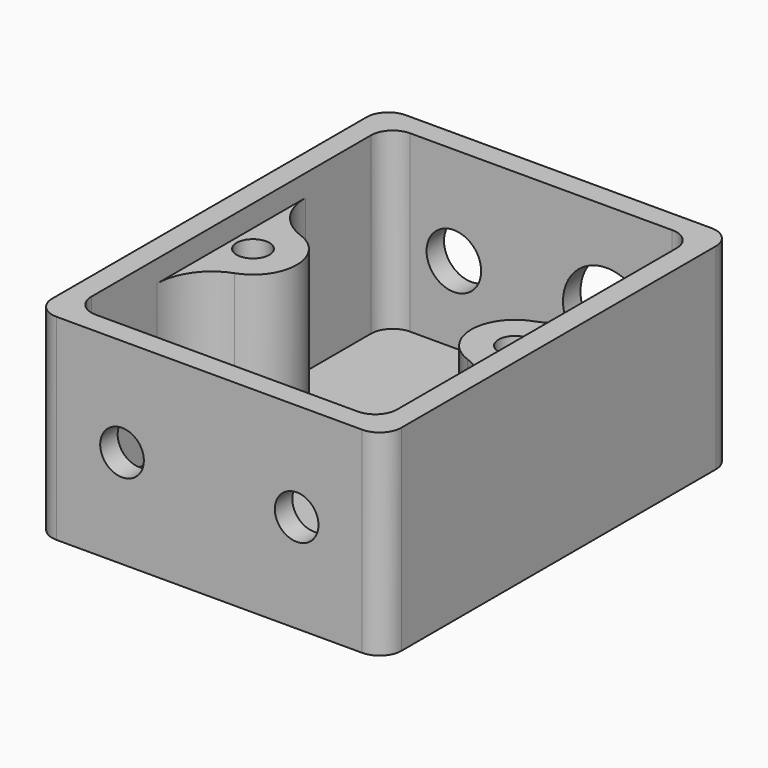
from build123d import *

# Parameters (mm, degrees)
F0_W      = 32
F0_H      = 40
F1_DEPTH  = 18
F2_W      = 28
F2_H      = 36
F3_DEPTH  = 16
F4_R      = 4
F4_R_2    = 2.5
F5_DEPTH  = 3
F6_R      = 2
F7_DEPTH  = 3
F8_R      = 4
F9_DEPTH  = 14
F10_R     = 1.5
F11_DEPTH = 8
F12_R     = 5
F13_R     = 2
F14_R     = 2


with BuildPart() as f1:
    # F0 (on Top) → F1 (new body)
    with BuildSketch(Plane.XY):
        Rectangle(F0_W, F0_H)
    extrude(amount=F1_DEPTH)

    # F2 (on face) → F3 (cut)
    with BuildSketch(Plane.XY.offset(18)):
        Rectangle(F2_W, F2_H)
    extrude(amount=-F3_DEPTH, mode=Mode.SUBTRACT)

    # F4 (on face) → F5 (cut)
    with BuildSketch(Plane(origin=(0, 20, 0), x_dir=(-1, 0, 0), z_dir=(0, 1, 0))):
        with Locations((-6, 9)):
            Circle(F4_R)
        with Locations((8, 9)):
            Circle(F4_R_2)
    extrude(amount=-F5_DEPTH, mode=Mode.SUBTRACT)

    # F6 (on face) → F7 (cut)
    with BuildSketch(Plane.XZ.offset(20)):
        with Locations((-8, 9)):
            Circle(F6_R)
        with Locations((8, 9)):
            Circle(F6_R)
    extrude(amount=-F7_DEPTH, mode=Mode.SUBTRACT)

    # F8 (on face) → F9 (join)
    with BuildSketch(Plane.XY.offset(2)):
        with Locations((-12, 0)):
            Circle(F8_R)
        with Locations((12, 0)):
            Circle(F8_R)
    extrude(amount=F9_DEPTH)

    # F10 (on face) → F11 (cut)
    with BuildSketch(Plane.XY.offset(16)):
        with Locations((-12, 0)):
            Circle(F10_R)
        with Locations((12, 0)):
            Circle(F10_R)
    extrude(amount=-F11_DEPTH, mode=Mode.SUBTRACT)

    # F12
    f12_edges = [f1.edges().sort_by_distance(p)[0] for p in [
        (14, 3.464102, 9),
        (14, -3.464102, 9),
        (-14, -3.464102, 9),
        (-14, 3.464102, 9),
    ]]
    fillet(f12_edges, radius=F12_R)

    # F13
    f13_edges = [f1.edges().sort_by_distance(p)[0] for p in [
        (-14, -18, 10),
        (14, -18, 10),
        (14, 18, 10),
        (-14, 18, 10),
    ]]
    fillet(f13_edges, radius=F13_R)

    # F14
    f14_edges = [f1.edges().sort_by_distance(p)[0] for p in [
        (16, 20, 9),
        (16, -20, 9),
        (-16, -20, 9),
        (-16, 20, 9),
    ]]
    fillet(f14_edges, radius=F14_R)


solid = f1.part
